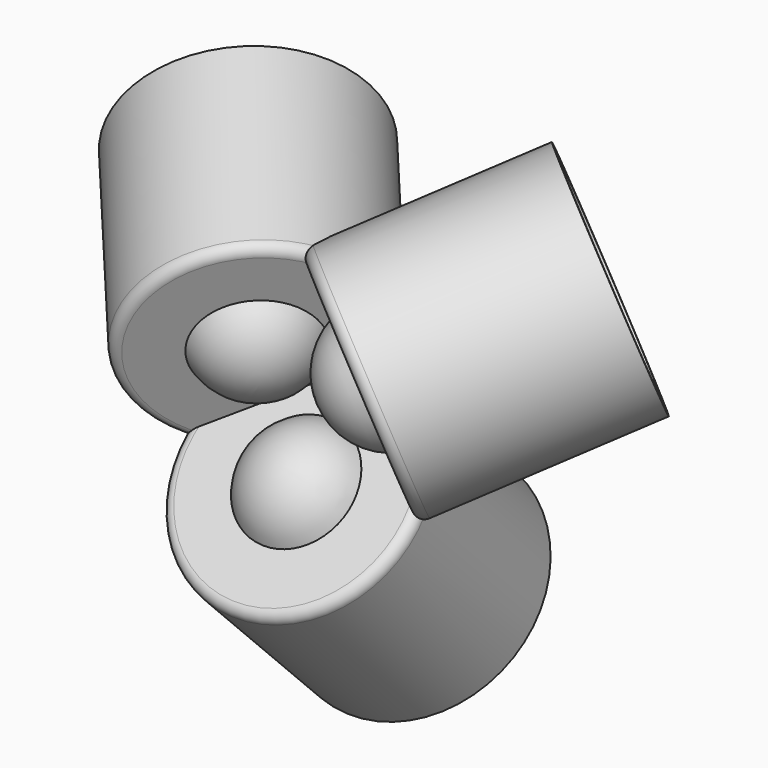
from build123d import *

# Parameters (mm, degrees)
F2_R     = 1.5
F4_COUNT = 3
F5_ANGLE = 45
F6_ANGLE = -45
F7_ANGLE = 45


with BuildPart() as f1:
    # F0 (on Front) → F1 (revolve)
    with BuildSketch(Plane.XZ):
        with BuildLine():
            Line((9.3661535876, 12.8847169811), (13.39, 12.8847169811))
            Line((13.39, 12.8847169811), (13.39, -8.5594598204))
            Line((13.39, -8.5594598204), (15.39, -14.9058490566))
            Line((15.39, -14.9058490566), (17.39, -14.9058490566))
            Line((17.39, -14.9058490566), (17.39, 16.8847169811))
            Line((17.39, 16.8847169811), (8.4690514833, 16.8847169811))
            ThreePointArc((8.4690514833, 16.8847169811), (5.0129940493, 20.7963997154), (0, 22.2508705687))
            Line((0, 22.2508705687), (0, 19.6122665526))
            ThreePointArc((0, 19.6122665526), (4.7570959228, 17.6418129039), (6.7275495715, 12.8847169811))
            Line((6.7275495715, 12.8847169811), (9.3661535876, 12.8847169811))
        make_face()
    revolve(axis=Axis((0, 0, 12.7783455608), (0, 0, 1)))

    # F2
    f2_edges = [f1.edges().sort_by_distance(p)[0] for p in [
        (-17.39, 0, 16.884717),
    ]]
    fillet(f2_edges, radius=F2_R)


with BuildPart() as f4_1:
    # F4: instance of F1
    add(f1.part.rotate(Axis((0, -13.616835, 26), (0, 1, 0)), 1 * 360 / F4_COUNT))


with BuildPart() as f4_2:
    # F4: instance of F1
    add(f1.part.rotate(Axis((0, -13.616835, 26), (0, 1, 0)), 2 * 360 / F4_COUNT))


with BuildPart() as f1_1:
    # F5: moved
    add(f1.part.rotate(Axis((-3.022489244, 0, 14.9058490566), (1, 0, 0)), F5_ANGLE))


with BuildPart() as f4_1_1:
    # F6: moved
    add(f4_1.part.rotate(Axis((-7.7055660377, 0, 28.2522809351), (0.5, 0, 0.8660254038)), F6_ANGLE))


with BuildPart() as f4_2_1:
    # F7: moved
    add(f4_2.part.rotate(Axis((7.7055660377, 0, 28.2522809351), (-0.5, 0, 0.8660254038)), F7_ANGLE))


with BuildPart() as f8_1:
    # F8: copy of F1
    add(f1_1.part)


solid = Compound([f1_1.part, f4_1_1.part, f4_2_1.part])
